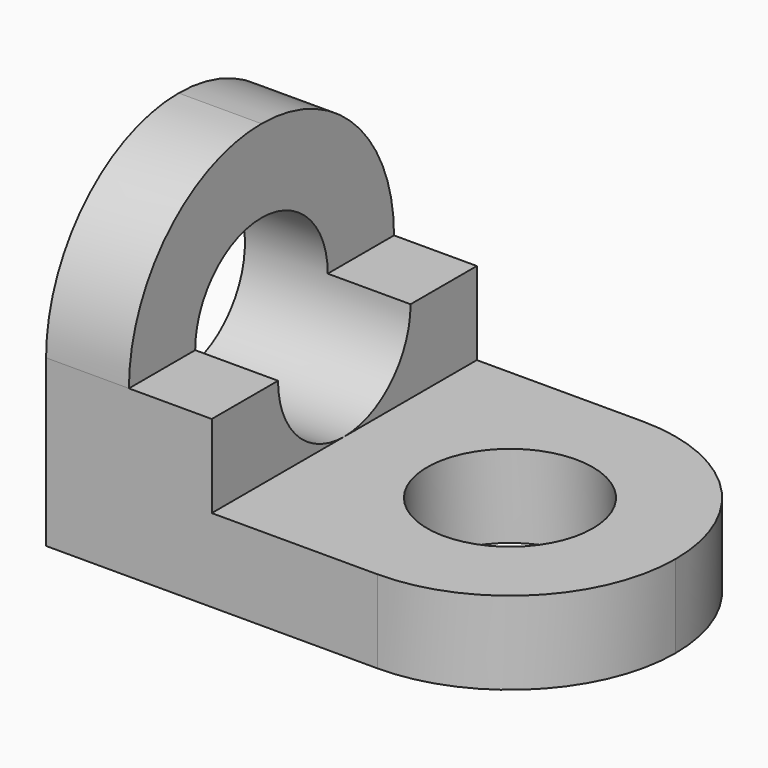
from build123d import *

# Parameters (mm, degrees)
F0_W     = 40
F0_H     = 40
F1_DEPTH = 60
F2_R     = 10
F3_DEPTH = 40
F5_DEPTH = 60
F6_W     = 20
F6_H     = 10
F7_DEPTH = 40


with BuildPart() as f1:
    # F0 (on Right) → F1 (new body)
    with BuildSketch(Plane.YZ):
        with Locations((20, 20)):
            Rectangle(F0_W, F0_H)
    extrude(amount=F1_DEPTH)

    # F2 (on face) → F3 (cut)
    with BuildSketch(Plane.XY.offset(40)):
        with Locations((40, 20)):
            Circle(F2_R)
        with BuildLine():
            Line((60, 40), (40, 40))
            ThreePointArc((40, 40), (54.1421356237, 34.1421356237), (60, 20))
            Line((60, 20), (60, 40))
        make_face()
        with BuildLine():
            Line((60, 0), (60, 20))
            ThreePointArc((60, 20), (54.1421356237, 5.8578643763), (40, 0))
            Line((40, 0), (60, 0))
        make_face()
    extrude(amount=-F3_DEPTH, mode=Mode.SUBTRACT)

    # F4 (on face) → F5 (cut)
    with BuildSketch(Plane(origin=(0, 0, 0), x_dir=(0, -1, 0), z_dir=(-1, 0, 0))):
        with BuildLine():
            ThreePointArc((-30, 20), (-20, 10), (-10, 20))
            ThreePointArc((-10, 20), (-20, 30), (-30, 20))
        make_face()
        with BuildLine():
            Line((0, 40), (-20, 40))
            ThreePointArc((-20, 40), (-5.8578643763, 34.1421356237), (0, 20))
            Line((0, 20), (0, 40))
        make_face()
        with BuildLine():
            Line((-40, 40), (-40, 20))
            ThreePointArc((-40, 20), (-34.1421356237, 34.1421356237), (-20, 40))
            Line((-20, 40), (-40, 40))
        make_face()
    extrude(amount=-F5_DEPTH, mode=Mode.SUBTRACT)

    # F6 (on face) → F7 (cut)
    with BuildSketch(Plane.XZ):
        Polygon((10, 40), (10, 20), (20, 20), (40, 20), (60, 20), (60, 40), align=None)
        with Locations((50, 15)):
            Rectangle(F6_W, F6_H)
        with Locations((30, 15)):
            Rectangle(F6_W, F6_H)
    extrude(amount=-F7_DEPTH, mode=Mode.SUBTRACT)


solid = f1.part
